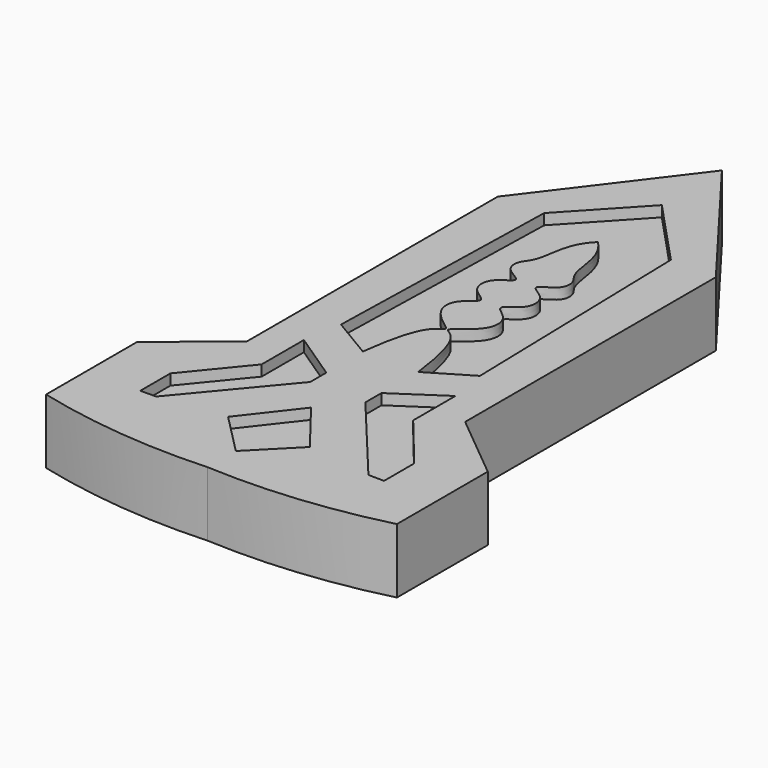
from build123d import *

# Parameters (mm, degrees)
PAD_DEPTH       = 1.5
POCKET_DEPTH    = 0.25
POCKET001_DEPTH = 0.25
POCKET002_DEPTH = 0.25
POCKET003_DEPTH = 0.25
POCKET004_DEPTH = 0.25


with BuildPart() as part:
    # Sketch007 → Pad (new body)
    with BuildSketch(Plane.XY.offset(1.5)):
        with BuildLine():
            Line((4.067204, -38.556705), (2.528322, -37.288639))
            Line((2.528322, -37.288639), (2.528322, -30.022738))
            Line((2.528322, -30.022738), (0, -26.686428))
            Line((-2.528322, -30.022738), (0, -26.686428))
            Line((-2.528322, -37.288639), (-2.528322, -30.022738))
            Line((-4.067204, -38.556705), (-2.528322, -37.288639))
            Line((-4.067204, -38.556705), (-4.067204, -41.190151))
            ThreePointArc((-4.067204, -41.190151), (-2.048671, -41.543363), (0, -41.59009))
            ThreePointArc((0, -41.59009), (2.048671, -41.543363), (4.067204, -41.190151))
            Line((4.067204, -38.556705), (4.067204, -41.190151))
        make_face()
    extrude(amount=PAD_DEPTH)

    # Sketch008 (on Face12 of Pad) → Pocket (cut)
    with BuildSketch(Plane.XY.offset(3)):
        Polygon((-2.826607, -39.138127), (-2.826607, -40.012966), (-2.46012, -40.007057), (-0.639511, -37.819958), (-0.639511, -37.352986), (-1.75668, -36.606461), (-1.75668, -37.830052), align=None)
    extrude(amount=-POCKET_DEPTH, mode=Mode.SUBTRACT)

    # Sketch008 (on Face12 of Pad) → Pocket001 (cut)
    with BuildSketch(Plane.XY.offset(3)):
        Polygon((-2.826607, -39.138127), (-2.826607, -40.012966), (-2.46012, -40.007057), (-0.639511, -37.819958), (-0.639511, -37.352986), (-1.75668, -36.606461), (-1.75668, -37.830052), align=None)
    extrude(amount=-POCKET001_DEPTH, mode=Mode.SUBTRACT)

    # MirroredSketch → Pocket002 (cut)
    with BuildSketch(Plane.XY.offset(3)):
        Polygon((2.826607, -39.138127), (2.826607, -40.012966), (2.46012, -40.007057), (0.639511, -37.819958), (0.639511, -37.352986), (1.75668, -36.606461), (1.75668, -37.830052), align=None)
    extrude(amount=-POCKET002_DEPTH, mode=Mode.SUBTRACT)

    # Sketch010 → Pocket003 (cut)
    with BuildSketch(Plane.XY.offset(3)):
        Polygon((0, -38.594479), (0.948123, -39.814625), (0, -40.774861), (-0.948123, -39.814625), align=None)
    extrude(amount=-POCKET003_DEPTH, mode=Mode.SUBTRACT)

    # Sketch012 → Pocket004 (cut)
    with BuildSketch(Plane.XY.offset(3)):
        with BuildLine():
            Line((0, -28.427958), (-1.468422, -30.001873))
            Line((-1.468422, -30.001873), (-1.610874, -35.713093))
            Line((-1.610874, -35.713093), (-0.64098, -36.2924))
            add(Edge.make_bspline(
                [(-0.64098, -36.2924), (-0.483362, -34.997082), (0, -34.6549), (0, -34.6549), (-0.640864, -34.1787), (-0.60559, -33.632), (-0.042707, -33.377321), (-0.649682, -33.154864), (-0.649682, -32.5826), (-0.032036, -32.368408), (-0.658134, -32.1549), (-0.658134, -31.7228), (-0.367131, -31.5465), (-0.358313, -30.6205), (0, -30.2854)],
                knots=[0, 0, 0, 0, 0.083333, 0.166667, 0.25, 0.333333, 0.416667, 0.5, 0.583333, 0.666667, 0.75, 0.833333, 0.916667, 1, 1, 1, 1], degree=3))
            add(Edge.make_bspline(
                [(0.64098, -36.2924), (0.483362, -34.997082), (0, -34.6549), (0, -34.6549), (0.640864, -34.1787), (0.60559, -33.632), (0.042707, -33.377321), (0.649682, -33.154864), (0.649682, -32.5826), (0.032036, -32.368408), (0.658134, -32.1549), (0.658134, -31.7228), (0.367131, -31.5465), (0.358313, -30.6205), (0, -30.2854)],
                knots=[0, 0, 0, 0, 0.083333, 0.166667, 0.25, 0.333333, 0.416667, 0.5, 0.583333, 0.666667, 0.75, 0.833333, 0.916667, 1, 1, 1, 1], degree=3))
            Line((0.64098, -36.2924), (1.610874, -35.713093))
            Line((1.610874, -35.713093), (1.468422, -30.001873))
            Line((1.468422, -30.001873), (0, -28.427958))
        make_face()
    extrude(amount=-POCKET004_DEPTH, mode=Mode.SUBTRACT)


with BuildPart() as part_1:
    # Body placement: moved
    add(part.part.moved(Location((0, 0.0005, 1.5))))


solid = part_1.part
